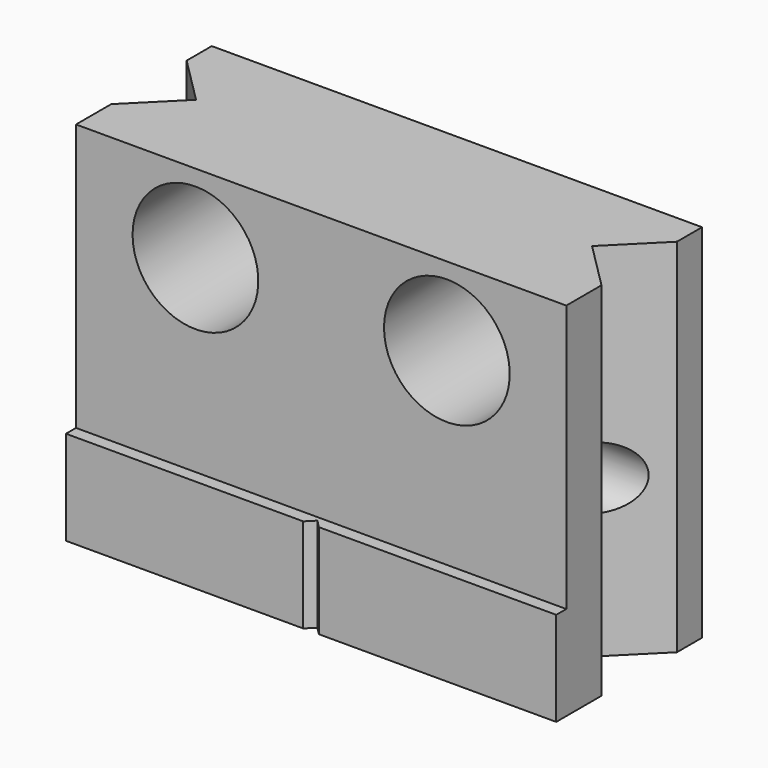
from build123d import *

# Parameters (mm, degrees)
F0_W           = 15.6
F0_H           = 11.5
F1_DEPTH       = 5.4
F2_W           = 15.6
F2_H           = 3
F3_DEPTH       = 0.4
F6_D           = 2
F6_DEPTH       = 5
F6_TIP         = 0.600860619
F6_ON_F5_D     = 2
F6_ON_F5_DEPTH = 5
F6_ON_F5_TIP   = 0.600860619
F8_DEPTH       = 25
F10_DEPTH      = 3
F12_D          = 4


with BuildPart() as f1:
    # F0 (on Front) → F1 (new body)
    with BuildSketch(Plane.XZ):
        with Locations((0, -1.15)):
            Rectangle(F0_W, F0_H)
    extrude(amount=-F1_DEPTH)

    # F2 (on face) → F3 (join)
    with BuildSketch(Plane.XZ):
        with Locations((0, -5.4)):
            Rectangle(F2_W, F2_H)
        with Locations((0, -5.4)):
            Rectangle(F2_W, F2_H)
    extrude(amount=F3_DEPTH)

    # F6
    with Locations(Plane.YZ.offset(7.8)):
        with Locations((2.9, -1.9)):
            Hole(F6_D / 2, depth=F6_DEPTH)
            with Locations((0, 0, -(F6_DEPTH + F6_TIP / 2))):  # 118° drill point
                Cone(0, F6_D / 2, F6_TIP, mode=Mode.SUBTRACT)

    # F6 on F5
    with Locations(Plane(origin=(-7.8, 0, 0), x_dir=(0, -1, 0), z_dir=(-1, 0, 0))):
        with Locations((-2.9, -1.9)):
            Hole(F6_ON_F5_D / 2, depth=F6_ON_F5_DEPTH)
            with Locations((0, 0, -(F6_ON_F5_DEPTH + F6_ON_F5_TIP / 2))):  # 118° drill point
                Cone(0, F6_ON_F5_D / 2, F6_ON_F5_TIP, mode=Mode.SUBTRACT)

    # F7 (on face) → F8 (cut)
    with BuildSketch(Plane(origin=(0, 0, -6.9), x_dir=(1, 0, 0), z_dir=(0, 0, -1))):
        Polygon((-6.3, -2.9), (-7.8, -1.4), (-7.8, -4.4), align=None)
        Polygon((7.8, -4.4), (7.8, -1.4), (6.3, -2.9), align=None)
    extrude(amount=-F8_DEPTH, mode=Mode.SUBTRACT)

    # F9 (on face) → F10 (cut, through all)
    with BuildSketch(Plane(origin=(0, 0, -6.9), x_dir=(1, 0, 0), z_dir=(0, 0, -1))):
        Polygon((-0.25, 0.4), (0, 0.15), (0.25, 0.4), align=None)
    extrude(amount=-F10_DEPTH, mode=Mode.SUBTRACT)

    # F12 (through all)
    with Locations(Plane.XZ):
        with Locations((-4, 2.1), (4, 2.1)):
            Hole(F12_D / 2)


solid = f1.part
